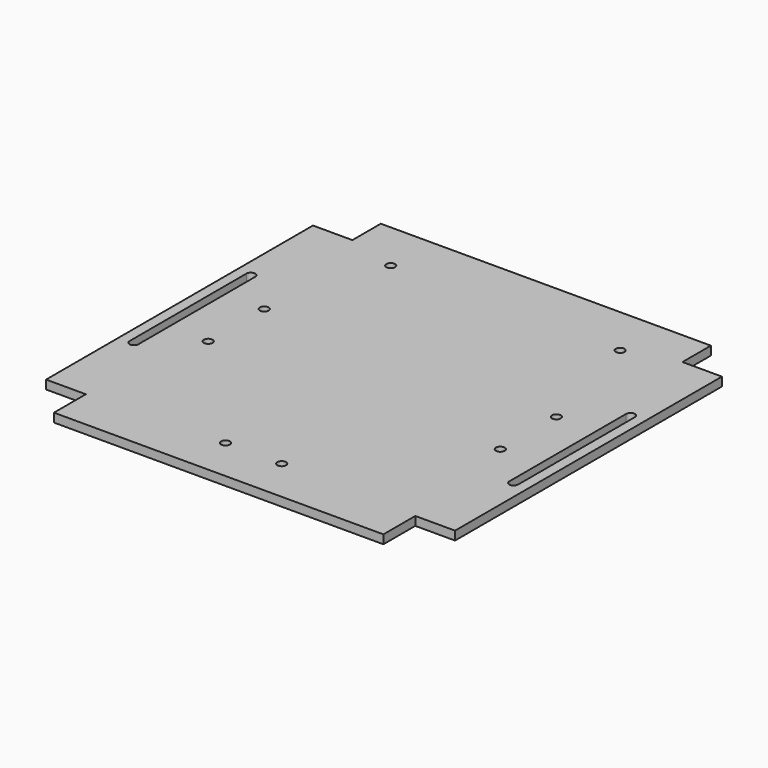
from build123d import *

# Parameters (mm, degrees)
F0_W      = 70
F0_H      = 140
F1_DEPTH  = 3
F3_D      = 3
F9_D      = 3
F11_D     = 3
F12_W     = 13.50167
F12_H     = 12.155368
F13_DEPTH = 3
F14_W     = 13.607755
F14_H     = 13.643959
F15_DEPTH = 4.788373
F16_DEPTH = 36.920227


with BuildPart() as f1:
    # F0 (on Top) → F1 (new body)
    with BuildSketch(Plane.XY):
        with Locations((35, 70)):
            Rectangle(F0_W, F0_H)
    extrude(amount=F1_DEPTH)

    # F3 (through all)
    with Locations(Plane.XY.offset(3)):
        with Locations((50, 58), (50, 82)):
            Hole(F3_D / 2)

    # F9 (through all)
    with Locations(Plane.XY.offset(3)):
        with Locations((39.273195, 122.702248)):
            Hole(F9_D / 2)

    # F11 (through all)
    with Locations(Plane.XY.offset(3)):
        with Locations((9.616546, 14.959589)):
            Hole(F11_D / 2)

    # F12 (on face) → F13 (cut)
    with BuildSketch(Plane.XY.offset(3)):
        with Locations((63.249165, 133.922316)):
            Rectangle(F12_W, F12_H)
    extrude(amount=-F13_DEPTH, mode=Mode.SUBTRACT)

    # F14 (on face) → F15 (cut)
    with BuildSketch(Plane.XY.offset(3)):
        with Locations((63.196123, 6.821979)):
            Rectangle(F14_W, F14_H)
    extrude(amount=-F15_DEPTH, mode=Mode.SUBTRACT)

    # F7 (on face) → F16 (cut)
    with BuildSketch(Plane.XY.offset(3)):
        with BuildLine():
            ThreePointArc((63.5, 45), (65, 43.5), (66.5, 45))
            Line((66.5, 45), (66.5, 95))
            ThreePointArc((66.5, 95), (65, 96.5), (63.5, 95))
            Line((63.5, 95), (63.5, 45))
        make_face()
    extrude(amount=-F16_DEPTH, mode=Mode.SUBTRACT)

    # F17: F1 across plane


with BuildPart() as f1_1:
    add(f1.part)
    add(f1.part.mirror(Plane.YZ))


solid = f1_1.part
